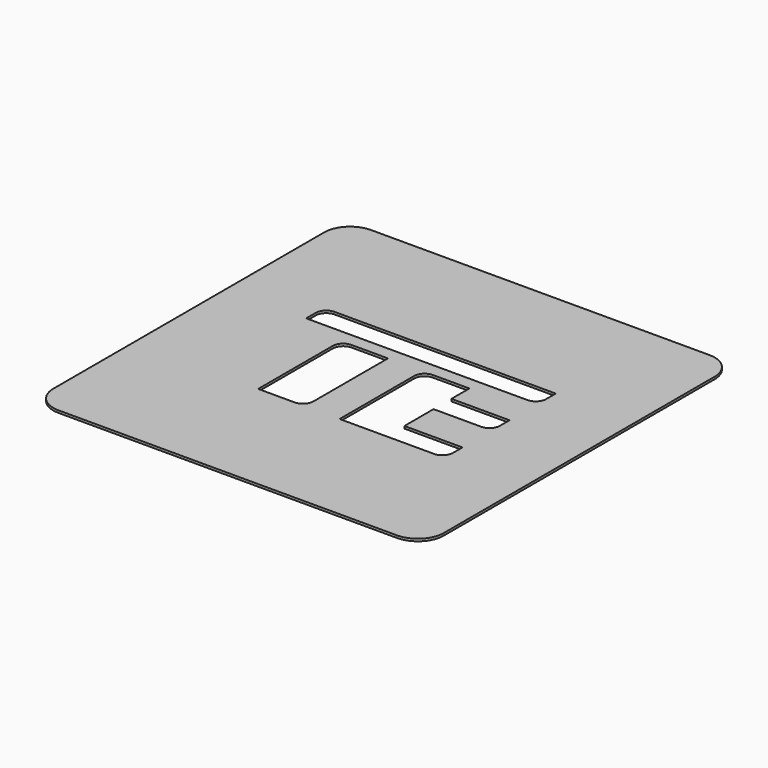
from build123d import *

# Parameters (mm, degrees)
F1_W     = 75
F1_H     = 75
F2_DEPTH = 0.45
F3_DEPTH = 0.451
F4_SCALE = 2
F5_R     = 10


with BuildPart() as f2:
    # F1 (on Top) → F2 (new body)
    with BuildSketch(Plane.XY):
        with Locations((42.972257086, 25.7581188657)):
            Rectangle(F1_W, F1_H)
    extrude(amount=F2_DEPTH)

    # F0 (on Top) → F3 (cut, through all)
    with BuildSketch(Plane.XY):
        with BuildLine():
            Line((20.8079852164, 34.7860567272), (63.291762352, 34.7860567272))
            ThreePointArc((63.291762352, 34.7860567272), (64.7059759144, 35.3718431648), (65.291762352, 36.7860567272))
            Line((65.291762352, 36.7860567272), (65.291762352, 39.0860567272))
            Line((65.291762352, 39.0860567272), (22.8079852164, 39.0860567272))
            ThreePointArc((22.8079852164, 39.0860567272), (21.393771654, 38.5002702895), (20.8079852164, 37.0860567272))
            Line((20.8079852164, 37.0860567272), (20.8079852164, 34.7860567272))
        make_face()
        with BuildLine():
            Line((38.5079852164, 14.3860567272), (38.5079852164, 32.2860567272))
            Line((38.5079852164, 32.2860567272), (31.5079852164, 32.2860567272))
            ThreePointArc((31.5079852164, 32.2860567272), (30.093771654, 31.7002702895), (29.5079852164, 30.2860567272))
            Line((29.5079852164, 30.2860567272), (29.5079852164, 12.3860567272))
            Line((29.5079852164, 12.3860567272), (36.5079852164, 12.3860567272))
            ThreePointArc((36.5079852164, 12.3860567272), (37.9221987788, 12.9718431648), (38.5079852164, 14.3860567272))
        make_face()
        with BuildLine():
            Line((54.1434029907, 27.9860567272), (54.1434029907, 32.2860567272))
            Line((54.1434029907, 32.2860567272), (47.1434029907, 32.2860567272))
            ThreePointArc((47.1434029907, 32.2860567272), (45.7291894283, 31.7002702895), (45.1434029907, 30.2860567272))
            Line((45.1434029907, 30.2860567272), (45.1434029907, 12.3860567272))
            Line((45.1434029907, 12.3860567272), (54.1434029907, 12.3860567272))
            Line((54.1434029907, 12.3860567272), (54.1434029907, 16.6860567272))
            Line((54.1434029907, 16.6860567272), (54.1434029907, 23.6860567272))
            Line((54.1434029907, 23.6860567272), (54.1434029907, 27.9860567272))
        make_face()
        with BuildLine():
            Line((65.291762352, 27.9860567272), (54.1434029907, 27.9860567272))
            Line((54.1434029907, 27.9860567272), (54.1434029907, 23.6860567272))
            Line((54.1434029907, 23.6860567272), (63.291762352, 23.6860567272))
            ThreePointArc((63.291762352, 23.6860567272), (64.7059759144, 24.2718431648), (65.291762352, 25.6860567272))
            Line((65.291762352, 25.6860567272), (65.291762352, 27.9860567272))
        make_face()
        with BuildLine():
            Line((65.291762352, 16.6860567272), (54.1434029907, 16.6860567272))
            Line((54.1434029907, 16.6860567272), (54.1434029907, 12.3860567272))
            Line((54.1434029907, 12.3860567272), (63.291762352, 12.3860567272))
            ThreePointArc((63.291762352, 12.3860567272), (64.7059759144, 12.9718431648), (65.291762352, 14.3860567272))
            Line((65.291762352, 14.3860567272), (65.291762352, 16.6860567272))
        make_face()
    extrude(amount=F3_DEPTH, mode=Mode.SUBTRACT)


with BuildPart() as f2_1:
    # F4: moved
    add(f2.part.scale(F4_SCALE))

    # F5
    f5_edges = [f2_1.edges().sort_by_distance(p)[0] for p in [
        (160.944514, -23.483762, 0.45),
        (10.944514, -23.483762, 0.45),
        (10.944514, 126.516238, 0.45),
        (160.944514, 126.516238, 0.45),
    ]]
    fillet(f5_edges, radius=F5_R)


solid = f2_1.part
